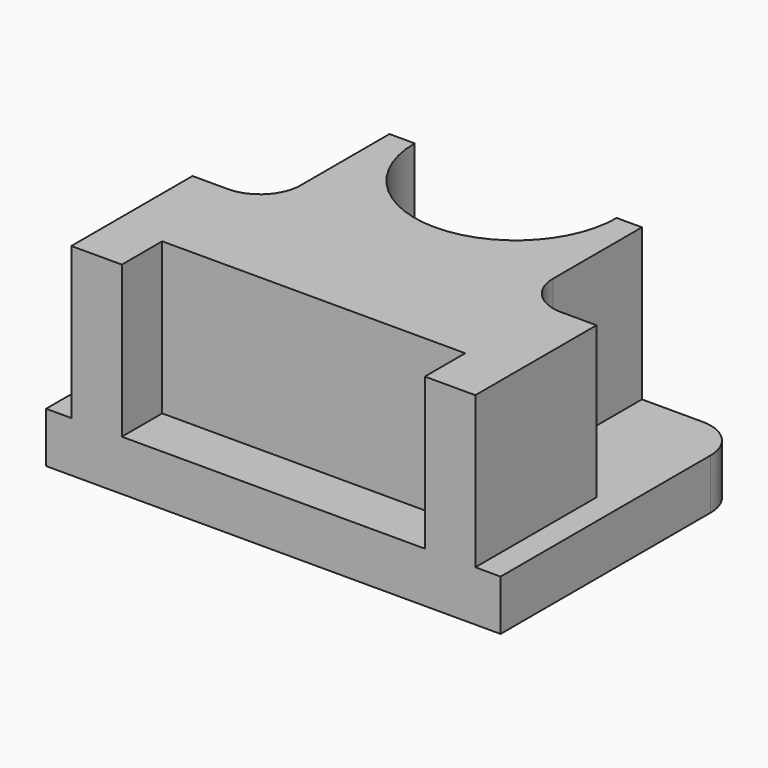
from build123d import *

# Parameters (mm, degrees)
F1_DEPTH = 6.35
F3_DEPTH = 19.05
F4_R     = 5.08


with BuildPart() as f1:
    # F0 (on Top) → F1 (new body)
    with BuildSketch(Plane.XY):
        with BuildLine():
            Line((28.575, -19.05), (28.575, 19.05))
            Line((28.575, 19.05), (12.7, 19.05))
            ThreePointArc((12.7, 19.05), (0, 6.35), (-12.7, 19.05))
            Line((-12.7, 19.05), (-28.575, 19.05))
            Line((-28.575, 19.05), (-28.575, -19.05))
            Line((-28.575, -19.05), (28.575, -19.05))
        make_face()
    extrude(amount=F1_DEPTH)

    # F2 (on face) → F3 (join)
    with BuildSketch(Plane.XY.offset(6.35)):
        with BuildLine():
            Line((-15.875, 19.05), (-15.875, 0))
            Line((-15.875, 0), (15.875, 0))
            Line((15.875, 0), (15.875, 19.05))
            Line((15.875, 19.05), (12.7, 19.05))
            ThreePointArc((12.7, 19.05), (0, 6.35), (-12.7, 19.05))
            Line((-12.7, 19.05), (-15.875, 19.05))
        make_face()
        Polygon((-25.4, 0), (-25.4, -19.05), (-19.05, -19.05), (-19.05, -12.7), (19.05, -12.7), (19.05, -19.05), (25.4, -19.05), (25.4, 0), (15.875, 0), (-15.875, 0), align=None)
    extrude(amount=F3_DEPTH)

    # F4
    f4_edges = [f1.edges().sort_by_distance(p)[0] for p in [
        (-28.575, 19.05, 3.175),
        (28.575, 19.05, 3.175),
        (-15.875, 0, 15.875),
        (15.875, 0, 15.875),
    ]]
    fillet(f4_edges, radius=F4_R)


solid = f1.part
